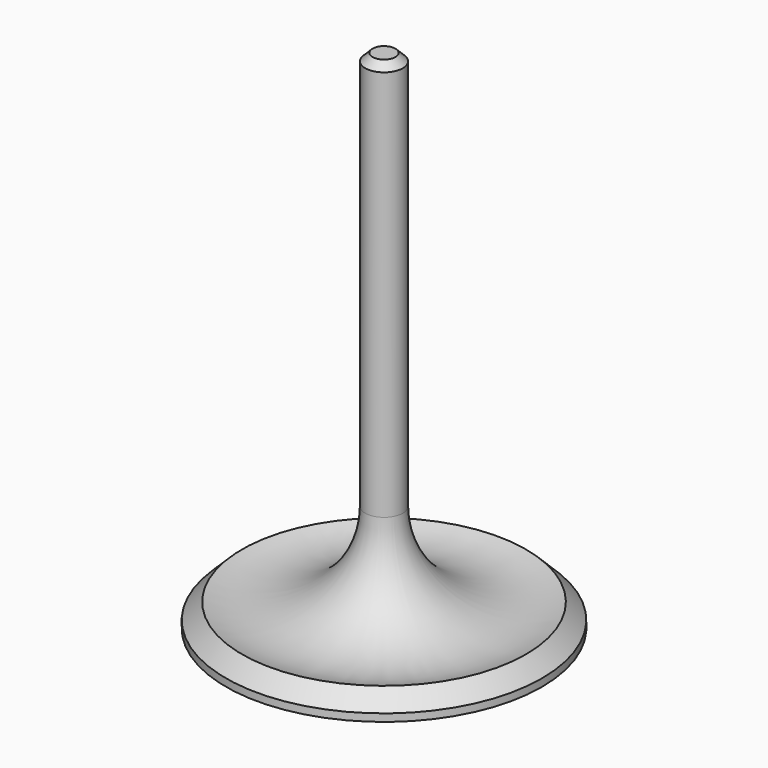
from build123d import *

# Parameters (mm, degrees)
F2_SIZE = 1.25


with BuildPart() as f1:
    # F0 (on Front) → F1 (revolve)
    with BuildSketch(Plane.XZ):
        with BuildLine():
            Line((0, 85.55), (0, 0))
            Line((0, 0), (26.67, 0))
            Line((26.67, 0), (26.67, 1.27))
            Line((26.67, 1.27), (23.975923, 3.964077))
            ThreePointArc((23.975923, 3.964077), (9.828048, 5.577479), (3.18, 18.169894))
            Line((3.18, 18.169894), (3.18, 85.55))
            Line((3.18, 85.55), (0, 85.55))
        make_face()
    revolve(axis=Axis((0, 0, 42.775), (0, 0, 1)))

    # F2
    f2_edges = [f1.edges().sort_by_distance(p)[0] for p in [
        (-3.18, 0, 85.55),
    ]]
    chamfer(f2_edges, length=F2_SIZE)


solid = f1.part
